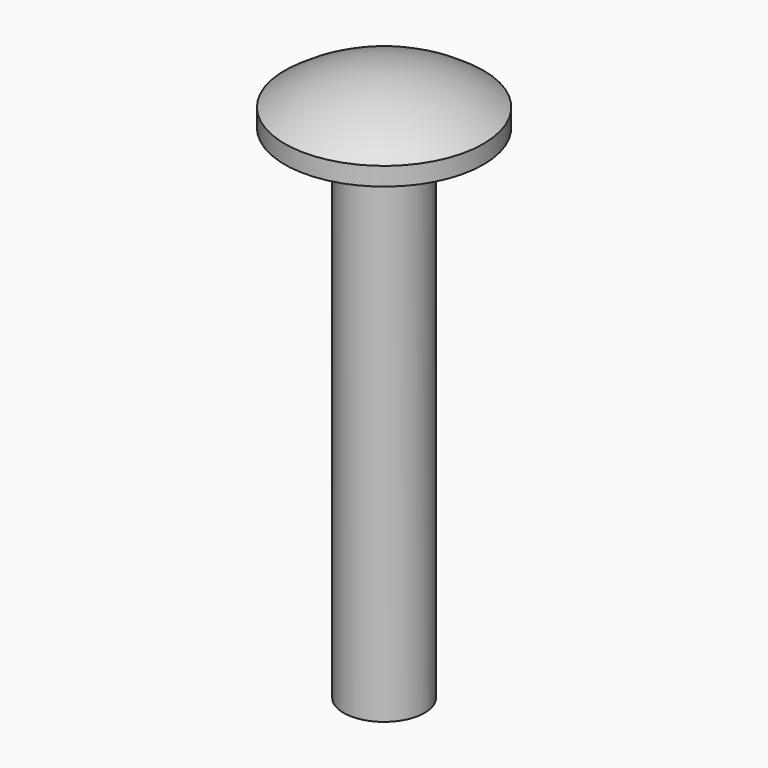
from build123d import *


with BuildPart() as f1:
    # F0 (on Front) → F1 (revolve)
    with BuildSketch(Plane.XZ):
        with BuildLine():
            ThreePointArc((9.8, -3.2), (5.1546095875, -0.8202581381), (0, 0))
            Line((0, 0), (0, -54.5))
            Line((0, -54.5), (4, -54.5))
            Line((4, -54.5), (4, -5))
            Line((4, -5), (9.8, -5))
            Line((9.8, -5), (9.8, -3.2))
        make_face()
    revolve(axis=Axis((0, 0, -27.25), (0, 0, -1)))


solid = f1.part
